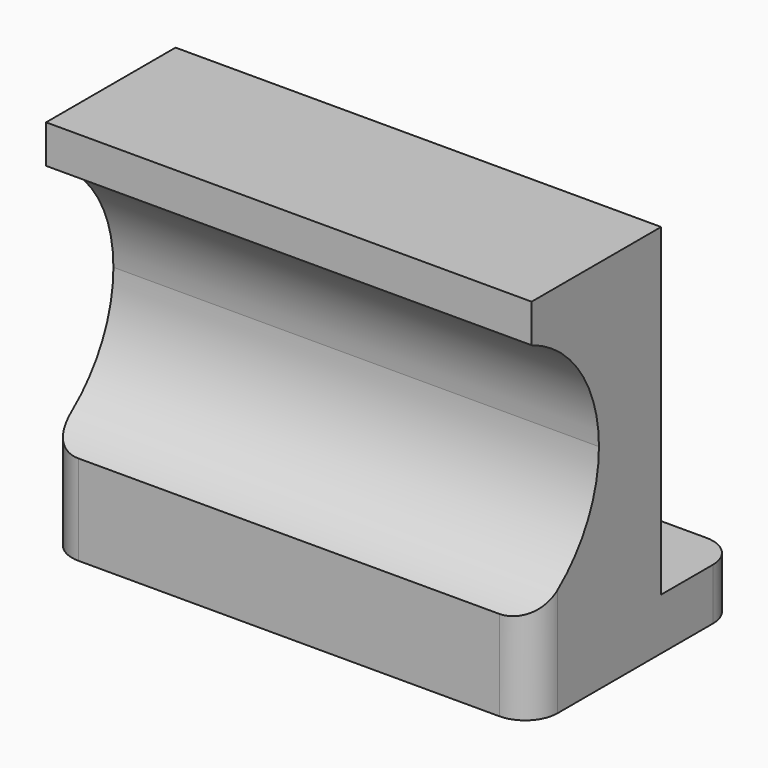
from build123d import *

# Parameters (mm, degrees)
F0_W      = 75
F0_H      = 25
F1_DEPTH  = 50
F3_DEPTH  = 50
F5_W      = 75
F5_H      = 40
F6_DEPTH  = 8
F9_R      = 5
F10_R     = 5.3
F11_DEPTH = 2.1


with BuildPart() as f1:
    # F0 (on Top) → F1 (new body)
    with BuildSketch(Plane.XY):
        Rectangle(F0_W, F0_H)
    extrude(amount=F1_DEPTH)


with BuildPart() as f3:
    # F2 (on Right) → F3 (new body, symmetric)
    with BuildSketch(Plane.YZ):
        with BuildLine():
            ThreePointArc((-20, 4.5), (-5.5043109857, 10.5043109857), (0.5, 25))
            ThreePointArc((0.5, 25), (-34.4956890143, 39.4956890143), (-20, 4.5))
        make_face()
    extrude(amount=F3_DEPTH, both=True)


with BuildPart() as f1_1:
    add(f1.part)

    # F4: cut F3
    add(f3.part, mode=Mode.SUBTRACT)


with BuildPart() as f6:
    # F5 (on Top) → F6 (new body)
    with BuildSketch(Plane.XY):
        Rectangle(F5_W, F5_H)
    extrude(amount=F6_DEPTH)


with BuildPart() as f6_1:
    # F7: moved
    add(f6.part.moved(Location((0, 7.5, -8))))

    # F8: union F1
    add(f1_1.part)

    # F9
    f9_edges = [f6_1.edges().sort_by_distance(p)[0] for p in [
        (37.5, -12.5, -1.039392),
        (-37.5, -12.5, -1.039392),
        (37.5, 27.5, -4),
        (-37.5, 27.5, -4),
    ]]
    fillet(f9_edges, radius=F9_R)


with BuildPart() as f11:
    # F10 (on Front) → F11 (new body)
    with BuildSketch(Plane.XZ):
        with Locations((-20, 26)):
            Circle(F10_R)
    extrude(amount=F11_DEPTH)


with BuildPart() as f11_1:
    # F12: moved
    add(f11.part.moved(Location((0, 12.5, 0))))


with BuildPart() as f13_1:
    # F13: instance of F11
    add(f11_1.part.mirror(Plane.YZ))


with BuildPart() as f6_2:
    add(f6_1.part)

    # F14: cut F11, F13_1
    add(f11_1.part, mode=Mode.SUBTRACT)
    add(f13_1.part, mode=Mode.SUBTRACT)


solid = f6_2.part
